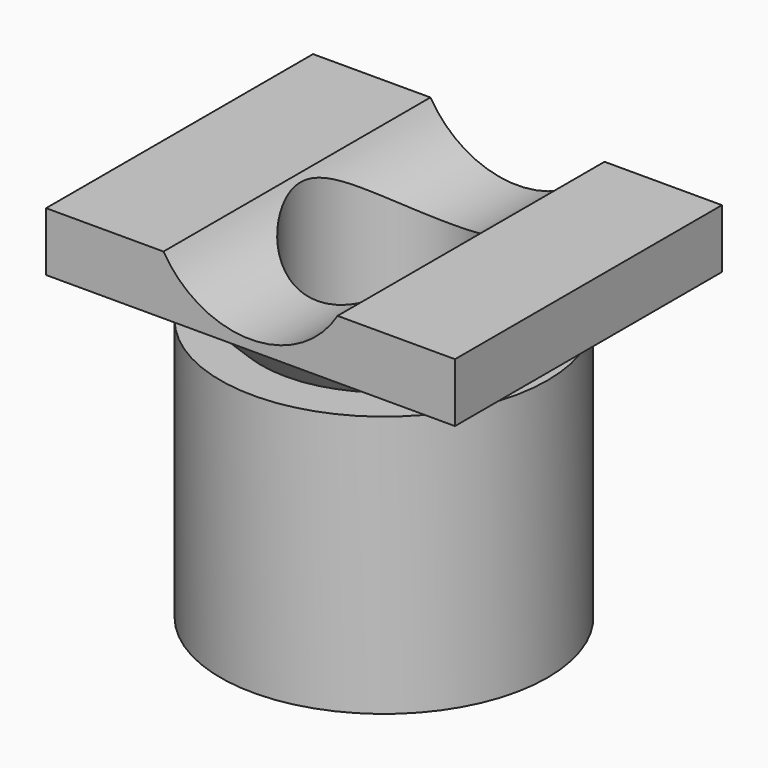
from build123d import *

# Parameters (mm, degrees)
F0_R      = 12.7
F1_DEPTH  = 20.32
F3_R      = 9.525
F4_DEPTH  = 3.175
F4_TAPER  = -45
F6_R      = 6.477
F7_DEPTH  = 23.496
F8_W      = 31.75
F8_H      = 25.908
F9_DEPTH  = 4.572
F11_R     = 6.477
F12_DEPTH = 28.068
F14_R     = 7.8994
F15_DEPTH = 25.909


with BuildPart() as f1:
    # F0 (on Top) → F1 (new body)
    with BuildSketch(Plane.XY):
        Circle(F0_R)
    extrude(amount=F1_DEPTH)

    # F3 (on offset) → F4 (join)
    with BuildSketch(Plane.XY.offset(20.32)):
        Circle(F3_R)
    extrude(amount=F4_DEPTH, taper=F4_TAPER)

    # F6 (on offset) → F7 (cut, through all)
    with BuildSketch(Plane.XY.offset(23.495)):
        Circle(F6_R)
    extrude(amount=-F7_DEPTH, mode=Mode.SUBTRACT)

    # F8 (on offset) → F9 (join)
    with BuildSketch(Plane.XY.offset(23.495)):
        Rectangle(F8_W, F8_H)
    extrude(amount=F9_DEPTH)

    # F11 (on offset) → F12 (cut, through all)
    with BuildSketch(Plane.XY.offset(28.067)):
        Circle(F11_R)
    extrude(amount=-F12_DEPTH, mode=Mode.SUBTRACT)

    # F14 (on offset) → F15 (cut, through all)
    with BuildSketch(Plane.XZ.offset(12.954)):
        with Locations((0, 32.1564)):
            Circle(F14_R)
    extrude(amount=-F15_DEPTH, mode=Mode.SUBTRACT)


solid = f1.part
